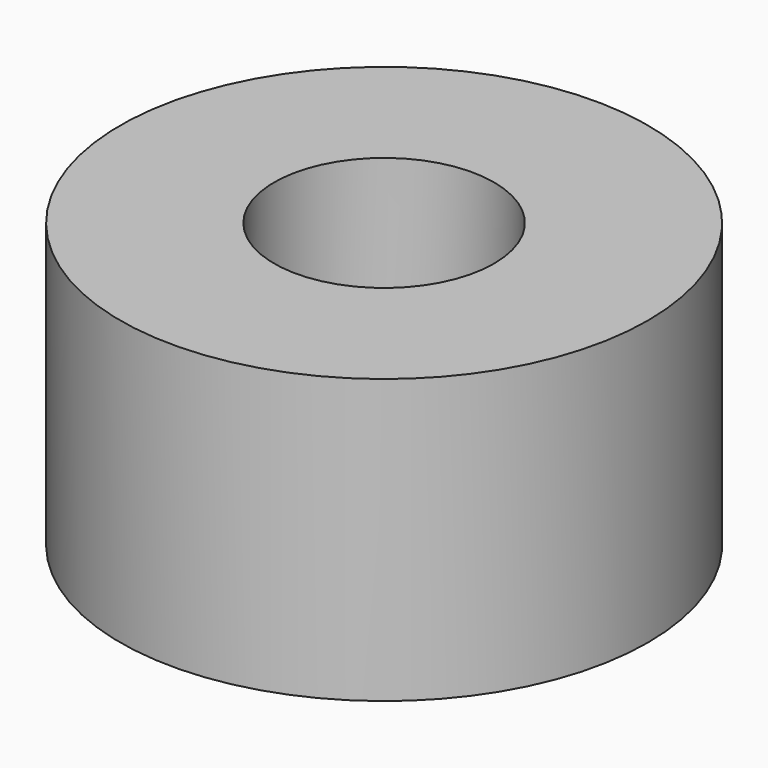
from build123d import *

# Parameters (mm, degrees)
CYLINDER002_R     = 11.25
CYLINDER002_DEPTH = 14
CYLINDER001_R     = 7.5
CYLINDER001_DEPTH = 29
CYLINDER_R        = 27
CYLINDER_DEPTH    = 29


with BuildPart() as cylinder002:
    # Cylinder002 → Cylinder002 (new body)
    with BuildSketch(Plane.XY.offset(15)):
        Circle(CYLINDER002_R)
    extrude(amount=CYLINDER002_DEPTH)


with BuildPart() as fusion:
    # Cylinder001 → Cylinder001 (new body)
    with BuildSketch(Plane.XY):
        Circle(CYLINDER001_R)
    extrude(amount=CYLINDER001_DEPTH)

    # Fusion: union Cylinder002
    add(cylinder002.part)


with BuildPart() as singleadapter:
    # Cylinder → Cylinder (new body)
    with BuildSketch(Plane.XY):
        Circle(CYLINDER_R)
    extrude(amount=CYLINDER_DEPTH)

    # Cut: cut Fusion
    add(fusion.part, mode=Mode.SUBTRACT)


solid = singleadapter.part
